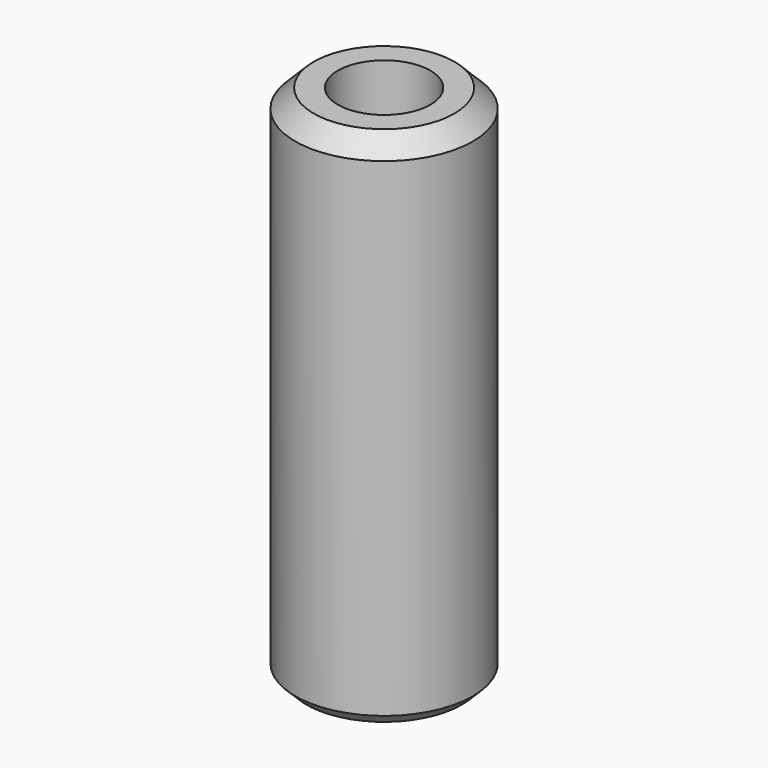
from build123d import *

# Parameters (mm, degrees)
CYLINDER053_R      = 2.5
CYLINDER053_DEPTH  = 50
CYLINDER052_R      = 4.8
CYLINDER052_DEPTH  = 28
CHAMFER006009_SIZE = 1
CHAMFER006010_SIZE = 0.6


with BuildPart() as cylinder063:
    # Cylinder053 → Cylinder053 (new body)
    with BuildSketch(Plane.XY.offset(-4)):
        Circle(CYLINDER053_R)
    extrude(amount=CYLINDER053_DEPTH)


with BuildPart() as locating_cylinder:
    # Cylinder052 → Cylinder052 (new body)
    with BuildSketch(Plane.XY):
        Circle(CYLINDER052_R)
    extrude(amount=CYLINDER052_DEPTH)

    # Cut144: cut Cylinder063
    add(cylinder063.part, mode=Mode.SUBTRACT)


with BuildPart() as locating_cylinder_1:
    # Cut144 placement: moved
    add(locating_cylinder.part.moved(Location((-6, 33, 0))))

    # Chamfer006009
    chamfer006009_edges = [locating_cylinder_1.edges().sort_by_distance(p)[0] for p in [
        (-10.8, 33, 28),
    ]]
    chamfer(chamfer006009_edges, length=CHAMFER006009_SIZE)

    # Chamfer006010
    chamfer006010_edges = [locating_cylinder_1.edges().sort_by_distance(p)[0] for p in [
        (-10.8, 33, 0),
    ]]
    chamfer(chamfer006010_edges, length=CHAMFER006010_SIZE)


solid = locating_cylinder_1.part
